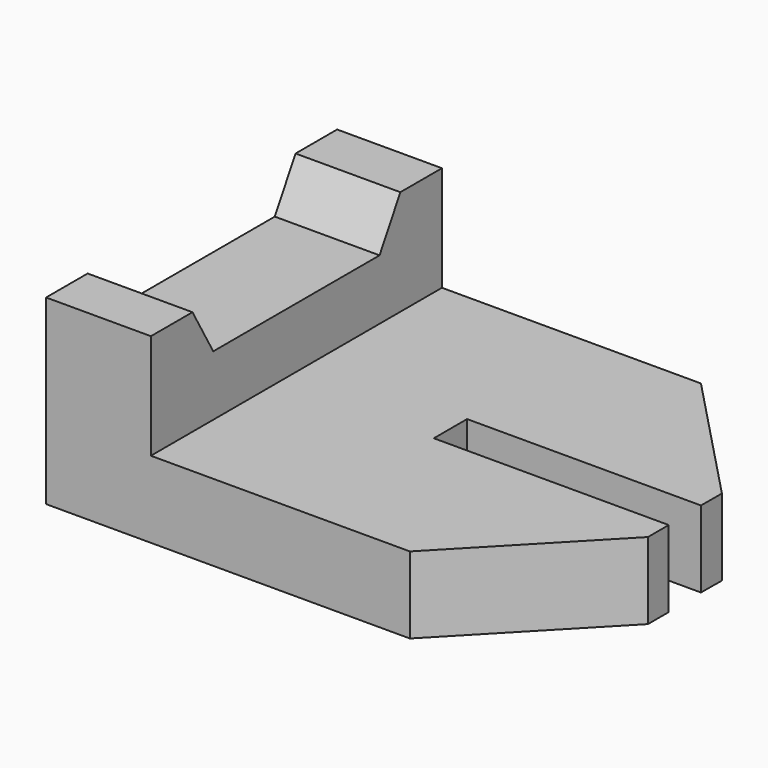
from build123d import *

# Parameters (mm, degrees)
F0_W     = 47.5
F0_H     = 35
F1_DEPTH = 17.5
F2_W     = 37.4171783071
F2_H     = 10.1249119453
F3_DEPTH = 35.001
F5_DEPTH = 10.0838216929
F7_DEPTH = 7.3760880547
F9_DEPTH = 7.3760880547


with BuildPart() as f1:
    # F0 (on Top) → F1 (new body)
    with BuildSketch(Plane.XY):
        with Locations((-23.6512488086, -2.9649846256)):
            Rectangle(F0_W, F0_H)
    extrude(amount=F1_DEPTH)

    # F2 (on face) → F3 (cut, through all)
    with BuildSketch(Plane.XZ.offset(20.4649846256)):
        with Locations((-18.6098379621, 12.4375440273)):
            Rectangle(F2_W, F2_H)
    extrude(amount=-F3_DEPTH, mode=Mode.SUBTRACT)

    # F4 (on face) → F5 (cut, through all)
    with BuildSketch(Plane.YZ.offset(-37.3184271157)):
        Polygon((9.5350153744, 17.5), (-15.4649846256, 17.5), (-12.9649846256, 13.1698729811), (7.0350153744, 13.1698729811), align=None)
    extrude(amount=-F5_DEPTH, mode=Mode.SUBTRACT)

    # F6 (on face) → F7 (cut, through all)
    with BuildSketch(Plane.XY.offset(7.3750880547)):
        Polygon((-22.5, -4.9646700483), (0.0987511914, -4.9646700483), (0.0987511914, 14.5350153744), (0, -0.9646700483), (-22.5, -0.9646700483), align=None)
    extrude(amount=-F7_DEPTH, mode=Mode.SUBTRACT)

    # F8 (on face) → F9 (cut, through all)
    with BuildSketch(Plane.XY.offset(7.3750880547)):
        Polygon((0.0987511914, -9.7249615937), (0.0987511914, -7.4646700483), (-12.4012488086, -20.4649846256), (0.0987511914, -20.4649846256), align=None)
        Polygon((-12.4012488086, 14.5350153744), (0.0159276115, 1.5352792135), (0.0987511914, 14.5350153744), align=None)
    extrude(amount=-F9_DEPTH, mode=Mode.SUBTRACT)


solid = f1.part
